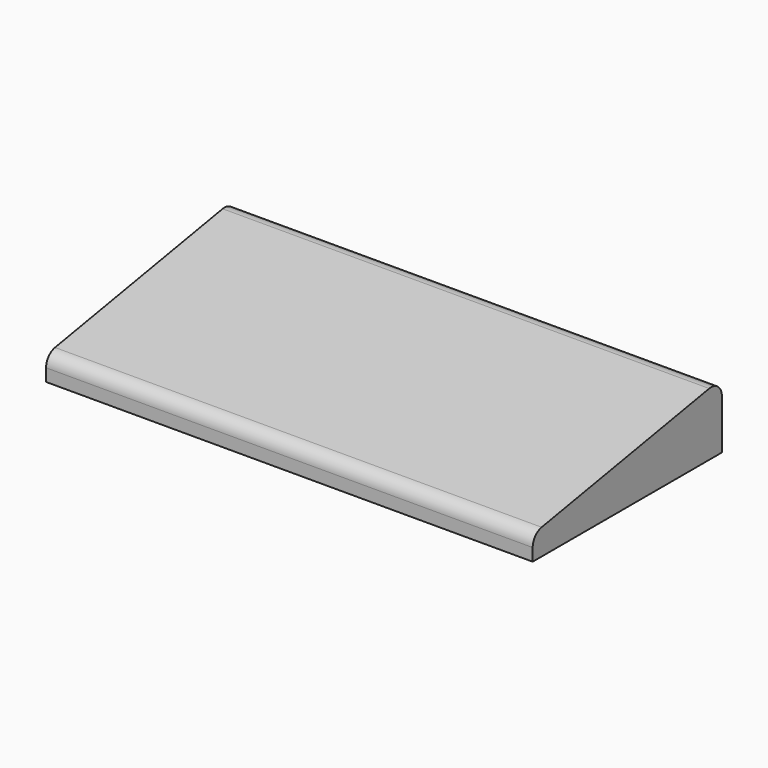
from build123d import *

# Parameters (mm, degrees)
F1_DEPTH = 72
F2_R     = 2


with BuildPart() as f1:
    # F0 (on Right) → F1 (new body)
    with BuildSketch(Plane.YZ):
        Polygon((20, 3.52654), (20, 0), (55, 0), (55, 9.697984), align=None)
    extrude(amount=F1_DEPTH)

    # F2
    f2_edges = [f1.edges().sort_by_distance(p)[0] for p in [
        (36, 55, 9.697984),
        (36, 20, 3.52654),
    ]]
    fillet(f2_edges, radius=F2_R)


solid = f1.part
